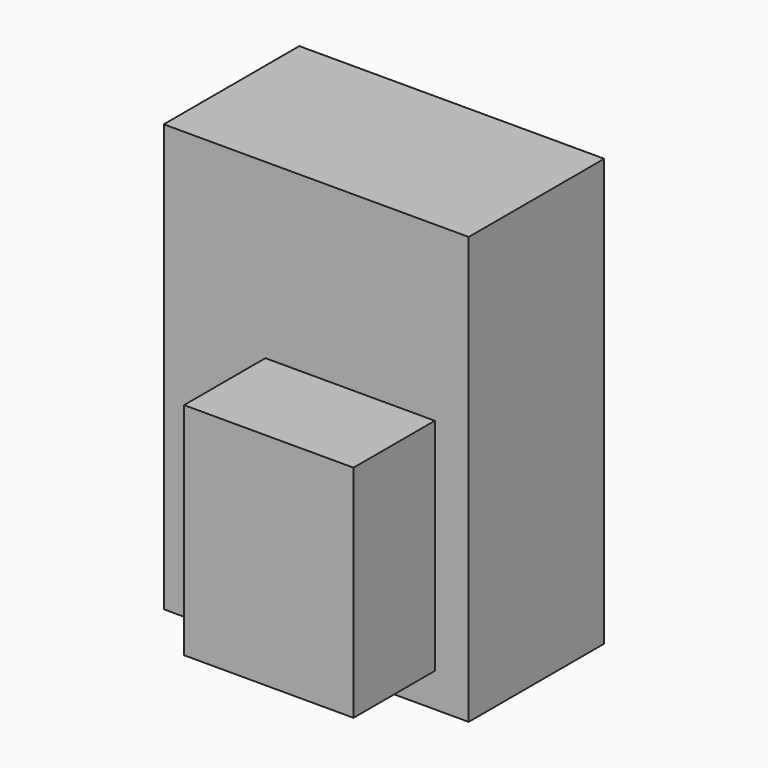
from build123d import *

# Parameters (mm, degrees)
F0_W     = 90
F0_H     = 126
F1_DEPTH = 25
F2_W     = 50
F2_H     = 65
F3_DEPTH = 30


with BuildPart() as f1:
    # F0 (on Front) → F1 (new body, symmetric)
    with BuildSketch(Plane.XZ):
        Rectangle(F0_W, F0_H)
    extrude(amount=F1_DEPTH, both=True)

    # F2 (on face) → F3 (join)
    with BuildSketch(Plane.XZ.offset(25)):
        with Locations((10, -20.5)):
            Rectangle(F2_W, F2_H)
    extrude(amount=F3_DEPTH)


solid = f1.part
